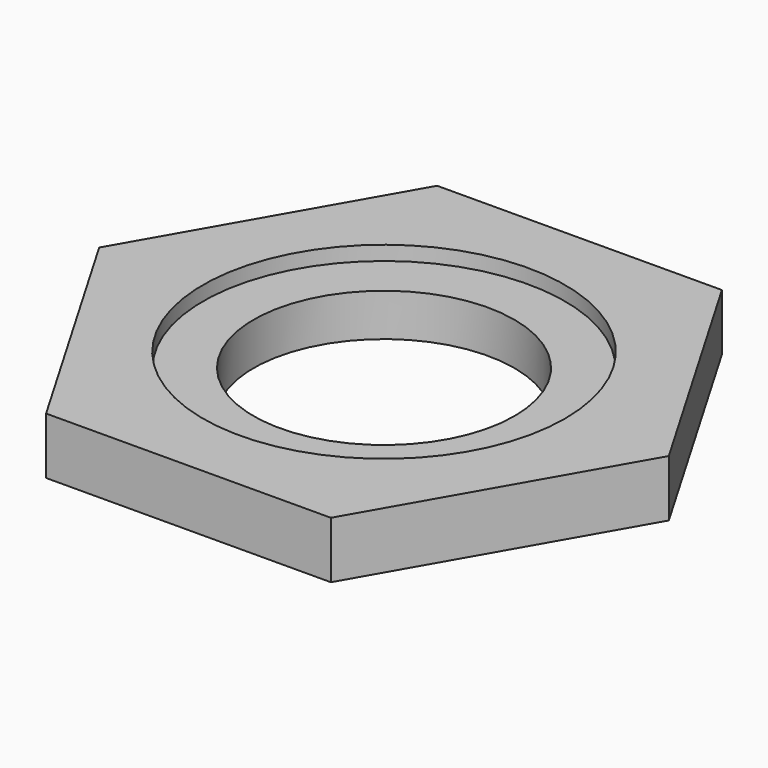
from build123d import *

# Parameters (mm, degrees)
F0_R     = 16.201527
F1_DEPTH = 5.08
F0_R_2   = 16.178711
F0_R_3   = 11.677175
F2_DEPTH = 3.81


with BuildPart() as f1:
    # F0 (on Top) → F1 (new body)
    with BuildSketch(Plane.XY):
        Polygon((12.601996, 22.053338), (-12.797753, 21.940317), (-25.399749, -0.11302), (-12.601996, -22.053338), (12.797753, -21.940317), (25.399749, 0.11302), align=None)
        Circle(F0_R, mode=Mode.SUBTRACT)
    extrude(amount=F1_DEPTH)


with BuildPart() as f2:
    # F0 (on Top) → F2 (new body)
    with BuildSketch(Plane.XY):
        Circle(F0_R_2)
        Circle(F0_R_3, mode=Mode.SUBTRACT)
    extrude(amount=F2_DEPTH)


solid = Compound([f1.part, f2.part])
